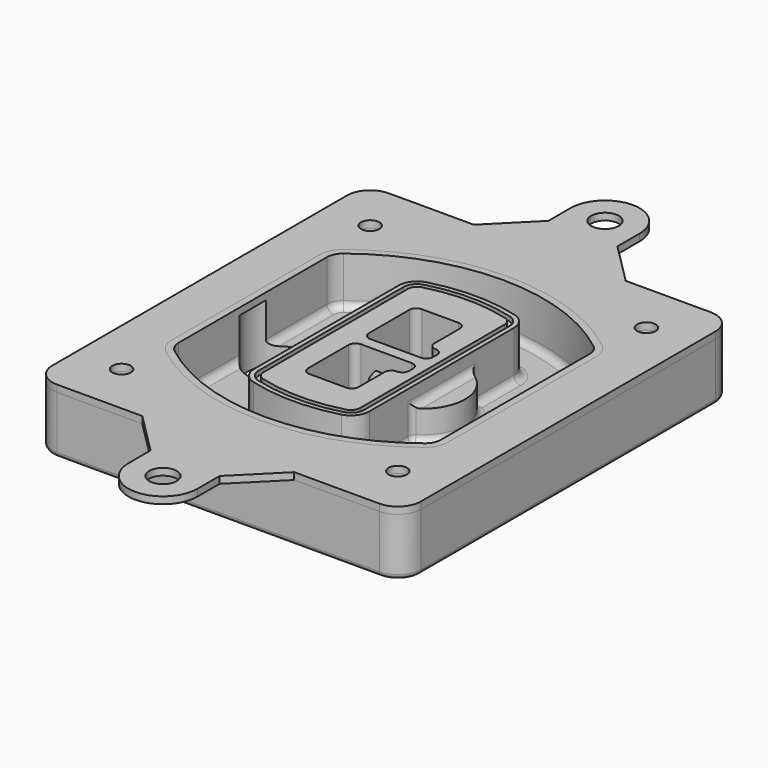
from build123d import *

# Parameters (mm, degrees)
F0_R      = 4
F1_DEPTH  = 25
F2_DEPTH  = 3
F3_DEPTH  = 18
F5_DEPTH  = 21
F6_DEPTH  = 2
F8_DEPTH  = 20
F9_DEPTH  = 16
F10_DEPTH = 25
F7_R      = 6
F7_R_2    = 4
F11_DEPTH = 6
F13_DEPTH = 9
F14_R     = 3
F15_R     = 2
F16_R     = 6
F16_R_2   = 4
F17_DEPTH = 3


with BuildPart() as f1:
    # F0 (on Top) → F1 (new body)
    with BuildSketch(Plane.XY):
        with BuildLine():
            ThreePointArc((-80, -80), (-77.0710678119, -87.0710678119), (-70, -90))
            Line((-70, -90), (70, -90))
            ThreePointArc((70, -90), (77.0710678119, -87.0710678119), (80, -80))
            Line((80, -80), (80, 80))
            ThreePointArc((80, 80), (77.0710678119, 87.0710678119), (70, 90))
            Line((70, 90), (-70, 90))
            ThreePointArc((-70, 90), (-77.0710678119, 87.0710678119), (-80, 80))
            Line((-80, 80), (-80, -80))
        make_face()
        with Locations((-60, -67.5)):
            Circle(F0_R, mode=Mode.SUBTRACT)
        with Locations((60, -67.5)):
            Circle(F0_R, mode=Mode.SUBTRACT)
        with Locations((-60, 67.5)):
            Circle(F0_R, mode=Mode.SUBTRACT)
        with BuildLine():
            ThreePointArc((-64, 40.2934422872), (-62.5820384798, 46.4328484224), (-58.6153846154, 51.3286200352))
            ThreePointArc((-58.6153846154, 51.3286200352), (0, 71.5), (58.6153846154, 51.3286200352))
            ThreePointArc((58.6153846154, 51.3286200352), (62.5820384798, 46.4328484224), (64, 40.2934422872))
            Line((64, 40.2934422872), (64, -40.2934422872))
            ThreePointArc((64, -40.2934422872), (62.5820384798, -46.4328484224), (58.6153846154, -51.3286200352))
            ThreePointArc((58.6153846154, -51.3286200352), (0, -71.5), (-58.6153846154, -51.3286200352))
            ThreePointArc((-58.6153846154, -51.3286200352), (-62.5820384798, -46.4328484224), (-64, -40.2934422872))
            Line((-64, -40.2934422872), (-64, 40.2934422872))
        make_face(mode=Mode.SUBTRACT)
        with Locations((60, 67.5)):
            Circle(F0_R, mode=Mode.SUBTRACT)
        with BuildLine():
            ThreePointArc((58.6153846154, 51.3286200352), (0, 71.5), (-58.6153846154, 51.3286200352))
            ThreePointArc((-58.6153846154, 51.3286200352), (-62.5820384798, 46.4328484224), (-64, 40.2934422872))
            Line((-64, 40.2934422872), (-64, -40.2934422872))
            ThreePointArc((-64, -40.2934422872), (-62.5820384798, -46.4328484224), (-58.6153846154, -51.3286200352))
            ThreePointArc((-58.6153846154, -51.3286200352), (0, -71.5), (58.6153846154, -51.3286200352))
            ThreePointArc((58.6153846154, -51.3286200352), (62.5820384798, -46.4328484224), (64, -40.2934422872))
            Line((64, -40.2934422872), (64, 40.2934422872))
            ThreePointArc((64, 40.2934422872), (62.5820384798, 46.4328484224), (58.6153846154, 51.3286200352))
        make_face()
        with BuildLine():
            Line((-60, -40.2934422872), (-60, 40.2934422872))
            ThreePointArc((-60, 40.2934422872), (-58.9871703427, 44.6787323838), (-56.1538461538, 48.1757121072))
            ThreePointArc((-56.1538461538, 48.1757121072), (0, 67.5), (56.1538461538, 48.1757121072))
            ThreePointArc((56.1538461538, 48.1757121072), (58.9871703427, 44.6787323838), (60, 40.2934422872))
            Line((60, 40.2934422872), (60, -40.2934422872))
            ThreePointArc((60, -40.2934422872), (58.9871703427, -44.6787323838), (56.1538461538, -48.1757121072))
            ThreePointArc((56.1538461538, -48.1757121072), (0, -67.5), (-56.1538461538, -48.1757121072))
            ThreePointArc((-56.1538461538, -48.1757121072), (-58.9871703427, -44.6787323838), (-60, -40.2934422872))
        make_face(mode=Mode.SUBTRACT)
        with BuildLine():
            ThreePointArc((-56.1538461538, 48.1757121072), (-58.9871703427, 44.6787323838), (-60, 40.2934422872))
            Line((-60, 40.2934422872), (-60, -40.2934422872))
            ThreePointArc((-60, -40.2934422872), (-58.9871703427, -44.6787323838), (-56.1538461538, -48.1757121072))
            ThreePointArc((-56.1538461538, -48.1757121072), (0, -67.5), (56.1538461538, -48.1757121072))
            ThreePointArc((56.1538461538, -48.1757121072), (58.9871703427, -44.6787323838), (60, -40.2934422872))
            Line((60, -40.2934422872), (60, 40.2934422872))
            ThreePointArc((60, 40.2934422872), (58.9871703427, 44.6787323838), (56.1538461538, 48.1757121072))
            ThreePointArc((56.1538461538, 48.1757121072), (0, 67.5), (-56.1538461538, 48.1757121072))
        make_face()
        with BuildLine():
            ThreePointArc((54.3076923077, 45.8110311612), (56.2910192399, 43.3631453548), (57, 40.2934422872))
            Line((57, 40.2934422872), (57, -40.2934422872))
            ThreePointArc((57, -40.2934422872), (56.2910192399, -43.3631453548), (54.3076923077, -45.8110311612))
            ThreePointArc((54.3076923077, -45.8110311612), (0, -64.5), (-54.3076923077, -45.8110311612))
            ThreePointArc((-54.3076923077, -45.8110311612), (-56.2910192399, -43.3631453548), (-57, -40.2934422872))
            Line((-57, -40.2934422872), (-57, 40.2934422872))
            ThreePointArc((-57, 40.2934422872), (-56.2910192399, 43.3631453548), (-54.3076923077, 45.8110311612))
            ThreePointArc((-54.3076923077, 45.8110311612), (0, 64.5), (54.3076923077, 45.8110311612))
        make_face(mode=Mode.SUBTRACT)
        with BuildLine():
            Line((57, -40.2934422872), (57, 40.2934422872))
            ThreePointArc((57, 40.2934422872), (56.2910192399, 43.3631453548), (54.3076923077, 45.8110311612))
            ThreePointArc((54.3076923077, 45.8110311612), (0, 64.5), (-54.3076923077, 45.8110311612))
            ThreePointArc((-54.3076923077, 45.8110311612), (-56.2910192399, 43.3631453548), (-57, 40.2934422872))
            Line((-57, 40.2934422872), (-57, -40.2934422872))
            ThreePointArc((-57, -40.2934422872), (-56.2910192399, -43.3631453548), (-54.3076923077, -45.8110311612))
            ThreePointArc((-54.3076923077, -45.8110311612), (0, -64.5), (54.3076923077, -45.8110311612))
            ThreePointArc((54.3076923077, -45.8110311612), (56.2910192399, -43.3631453548), (57, -40.2934422872))
        make_face()
    extrude(amount=-F1_DEPTH)

    # F0 (on Top) → F2 (join)
    with BuildSketch(Plane.XY):
        with BuildLine():
            ThreePointArc((-56.1538461538, 48.1757121072), (-58.9871703427, 44.6787323838), (-60, 40.2934422872))
            Line((-60, 40.2934422872), (-60, -40.2934422872))
            ThreePointArc((-60, -40.2934422872), (-58.9871703427, -44.6787323838), (-56.1538461538, -48.1757121072))
            ThreePointArc((-56.1538461538, -48.1757121072), (0, -67.5), (56.1538461538, -48.1757121072))
            ThreePointArc((56.1538461538, -48.1757121072), (58.9871703427, -44.6787323838), (60, -40.2934422872))
            Line((60, -40.2934422872), (60, 40.2934422872))
            ThreePointArc((60, 40.2934422872), (58.9871703427, 44.6787323838), (56.1538461538, 48.1757121072))
            ThreePointArc((56.1538461538, 48.1757121072), (0, 67.5), (-56.1538461538, 48.1757121072))
        make_face()
        with BuildLine():
            ThreePointArc((54.3076923077, 45.8110311612), (56.2910192399, 43.3631453548), (57, 40.2934422872))
            Line((57, 40.2934422872), (57, -40.2934422872))
            ThreePointArc((57, -40.2934422872), (56.2910192399, -43.3631453548), (54.3076923077, -45.8110311612))
            ThreePointArc((54.3076923077, -45.8110311612), (0, -64.5), (-54.3076923077, -45.8110311612))
            ThreePointArc((-54.3076923077, -45.8110311612), (-56.2910192399, -43.3631453548), (-57, -40.2934422872))
            Line((-57, -40.2934422872), (-57, 40.2934422872))
            ThreePointArc((-57, 40.2934422872), (-56.2910192399, 43.3631453548), (-54.3076923077, 45.8110311612))
            ThreePointArc((-54.3076923077, 45.8110311612), (0, 64.5), (54.3076923077, 45.8110311612))
        make_face(mode=Mode.SUBTRACT)
    extrude(amount=F2_DEPTH)

    # F0 (on Top) → F3 (cut)
    with BuildSketch(Plane.XY):
        with BuildLine():
            Line((57, -40.2934422872), (57, 40.2934422872))
            ThreePointArc((57, 40.2934422872), (56.2910192399, 43.3631453548), (54.3076923077, 45.8110311612))
            ThreePointArc((54.3076923077, 45.8110311612), (0, 64.5), (-54.3076923077, 45.8110311612))
            ThreePointArc((-54.3076923077, 45.8110311612), (-56.2910192399, 43.3631453548), (-57, 40.2934422872))
            Line((-57, 40.2934422872), (-57, -40.2934422872))
            ThreePointArc((-57, -40.2934422872), (-56.2910192399, -43.3631453548), (-54.3076923077, -45.8110311612))
            ThreePointArc((-54.3076923077, -45.8110311612), (0, -64.5), (54.3076923077, -45.8110311612))
            ThreePointArc((54.3076923077, -45.8110311612), (56.2910192399, -43.3631453548), (57, -40.2934422872))
        make_face()
    extrude(amount=-F3_DEPTH, mode=Mode.SUBTRACT)

    # F4 (on face) → F5 (join, through all)
    with BuildSketch(Plane.XY.offset(3)):
        with BuildLine():
            ThreePointArc((-25, -39.2465276821), (-23.3511545998, -44.1109737193), (-19.0842911877, -46.9702398883))
            ThreePointArc((-19.0842911877, -46.9702398883), (0, -49.5), (19.0842911877, -46.9702398883))
            ThreePointArc((19.0842911877, -46.9702398883), (23.3511545998, -44.1109737193), (25, -39.2465276821))
            Line((25, -39.2465276821), (25, 39.2465276821))
            ThreePointArc((25, 39.2465276821), (23.3511545998, 44.1109737193), (19.0842911877, 46.9702398883))
            ThreePointArc((19.0842911877, 46.9702398883), (0, 49.5), (-19.0842911877, 46.9702398883))
            ThreePointArc((-19.0842911877, 46.9702398883), (-23.3511545998, 44.1109737193), (-25, 39.2465276821))
            Line((-25, 39.2465276821), (-25, -39.2465276821))
        make_face()
        with BuildLine():
            ThreePointArc((18.5632183908, 45.0393118368), (21.7633659499, 42.89486221), (23, 39.2465276821))
            Line((23, 39.2465276821), (23, -39.2465276821))
            ThreePointArc((23, -39.2465276821), (21.7633659499, -42.89486221), (18.5632183908, -45.0393118368))
            ThreePointArc((18.5632183908, -45.0393118368), (0, -47.5), (-18.5632183908, -45.0393118368))
            ThreePointArc((-18.5632183908, -45.0393118368), (-21.7633659499, -42.89486221), (-23, -39.2465276821))
            Line((-23, -39.2465276821), (-23, 39.2465276821))
            ThreePointArc((-23, 39.2465276821), (-21.7633659499, 42.89486221), (-18.5632183908, 45.0393118368))
            ThreePointArc((-18.5632183908, 45.0393118368), (0, 47.5), (18.5632183908, 45.0393118368))
        make_face(mode=Mode.SUBTRACT)
        with BuildLine():
            Line((23, -39.2465276821), (23, 39.2465276821))
            ThreePointArc((23, 39.2465276821), (21.7633659499, 42.89486221), (18.5632183908, 45.0393118368))
            ThreePointArc((18.5632183908, 45.0393118368), (0, 47.5), (-18.5632183908, 45.0393118368))
            ThreePointArc((-18.5632183908, 45.0393118368), (-21.7633659499, 42.89486221), (-23, 39.2465276821))
            Line((-23, 39.2465276821), (-23, -39.2465276821))
            ThreePointArc((-23, -39.2465276821), (-21.7633659499, -42.89486221), (-18.5632183908, -45.0393118368))
            ThreePointArc((-18.5632183908, -45.0393118368), (0, -47.5), (18.5632183908, -45.0393118368))
            ThreePointArc((18.5632183908, -45.0393118368), (21.7633659499, -42.89486221), (23, -39.2465276821))
        make_face()
        with BuildLine():
            ThreePointArc((18.0421455939, 43.1083837852), (20.1755772999, 41.6787507007), (21, 39.2465276821))
            Line((21, 39.2465276821), (21, -39.2465276821))
            ThreePointArc((21, -39.2465276821), (20.1755772999, -41.6787507007), (18.0421455939, -43.1083837852))
            ThreePointArc((18.0421455939, -43.1083837852), (0, -45.5), (-18.0421455939, -43.1083837852))
            ThreePointArc((-18.0421455939, -43.1083837852), (-20.1755772999, -41.6787507007), (-21, -39.2465276821))
            Line((-21, -39.2465276821), (-21, 39.2465276821))
            ThreePointArc((-21, 39.2465276821), (-20.1755772999, 41.6787507007), (-18.0421455939, 43.1083837852))
            ThreePointArc((-18.0421455939, 43.1083837852), (0, 45.5), (18.0421455939, 43.1083837852))
        make_face(mode=Mode.SUBTRACT)
        with BuildLine():
            Line((21, -39.2465276821), (21, 39.2465276821))
            ThreePointArc((21, 39.2465276821), (20.1755772999, 41.6787507007), (18.0421455939, 43.1083837852))
            ThreePointArc((18.0421455939, 43.1083837852), (0, 45.5), (-18.0421455939, 43.1083837852))
            ThreePointArc((-18.0421455939, 43.1083837852), (-20.1755772999, 41.6787507007), (-21, 39.2465276821))
            Line((-21, 39.2465276821), (-21, -39.2465276821))
            ThreePointArc((-21, -39.2465276821), (-20.1755772999, -41.6787507007), (-18.0421455939, -43.1083837852))
            ThreePointArc((-18.0421455939, -43.1083837852), (0, -45.5), (18.0421455939, -43.1083837852))
            ThreePointArc((18.0421455939, -43.1083837852), (20.1755772999, -41.6787507007), (21, -39.2465276821))
        make_face()
        with BuildLine():
            Line((-8, -2.5), (14, -2.5))
            ThreePointArc((14, -2.5), (16.1213203436, -3.3786796564), (17, -5.5))
            Line((17, -5.5), (17, -7.5))
            ThreePointArc((17, -7.5), (16.1213203436, -9.6213203436), (14, -10.5))
            ThreePointArc((14, -10.5), (11.8786796564, -11.3786796564), (11, -13.5))
            Line((11, -13.5), (11, -27.5))
            ThreePointArc((11, -27.5), (10.1213203436, -29.6213203436), (8, -30.5))
            Line((8, -30.5), (-8, -30.5))
            ThreePointArc((-8, -30.5), (-10.1213203436, -29.6213203436), (-11, -27.5))
            Line((-11, -27.5), (-11, -5.5))
            ThreePointArc((-11, -5.5), (-10.1213203436, -3.3786796564), (-8, -2.5))
        make_face(mode=Mode.SUBTRACT)
        with BuildLine():
            ThreePointArc((-8, 2.5), (-10.1213203436, 3.3786796564), (-11, 5.5))
            Line((-11, 5.5), (-11, 27.5))
            ThreePointArc((-11, 27.5), (-10.1213203436, 29.6213203436), (-8, 30.5))
            Line((-8, 30.5), (8, 30.5))
            ThreePointArc((8, 30.5), (10.1213203436, 29.6213203436), (11, 27.5))
            Line((11, 27.5), (11, 13.5))
            ThreePointArc((11, 13.5), (11.8786796564, 11.3786796564), (14, 10.5))
            ThreePointArc((14, 10.5), (16.1213203436, 9.6213203436), (17, 7.5))
            Line((17, 7.5), (17, 5.5))
            ThreePointArc((17, 5.5), (16.1213203436, 3.3786796564), (14, 2.5))
            Line((14, 2.5), (-8, 2.5))
        make_face(mode=Mode.SUBTRACT)
    extrude(amount=-F5_DEPTH)

    # F4 (on face) → F6 (cut)
    with BuildSketch(Plane.XY.offset(3)):
        with BuildLine():
            Line((23, -39.2465276821), (23, 39.2465276821))
            ThreePointArc((23, 39.2465276821), (21.7633659499, 42.89486221), (18.5632183908, 45.0393118368))
            ThreePointArc((18.5632183908, 45.0393118368), (0, 47.5), (-18.5632183908, 45.0393118368))
            ThreePointArc((-18.5632183908, 45.0393118368), (-21.7633659499, 42.89486221), (-23, 39.2465276821))
            Line((-23, 39.2465276821), (-23, -39.2465276821))
            ThreePointArc((-23, -39.2465276821), (-21.7633659499, -42.89486221), (-18.5632183908, -45.0393118368))
            ThreePointArc((-18.5632183908, -45.0393118368), (0, -47.5), (18.5632183908, -45.0393118368))
            ThreePointArc((18.5632183908, -45.0393118368), (21.7633659499, -42.89486221), (23, -39.2465276821))
        make_face()
        with BuildLine():
            ThreePointArc((18.0421455939, 43.1083837852), (20.1755772999, 41.6787507007), (21, 39.2465276821))
            Line((21, 39.2465276821), (21, -39.2465276821))
            ThreePointArc((21, -39.2465276821), (20.1755772999, -41.6787507007), (18.0421455939, -43.1083837852))
            ThreePointArc((18.0421455939, -43.1083837852), (0, -45.5), (-18.0421455939, -43.1083837852))
            ThreePointArc((-18.0421455939, -43.1083837852), (-20.1755772999, -41.6787507007), (-21, -39.2465276821))
            Line((-21, -39.2465276821), (-21, 39.2465276821))
            ThreePointArc((-21, 39.2465276821), (-20.1755772999, 41.6787507007), (-18.0421455939, 43.1083837852))
            ThreePointArc((-18.0421455939, 43.1083837852), (0, 45.5), (18.0421455939, 43.1083837852))
        make_face(mode=Mode.SUBTRACT)
    extrude(amount=-F6_DEPTH, mode=Mode.SUBTRACT)

    # F7 (on face) → F8 (join)
    with BuildSketch(Plane(origin=(0, 0, -25), x_dir=(1, 0, 0), z_dir=(0, 0, -1))):
        with BuildLine():
            ThreePointArc((3.28842436, 0), (16.7567035675, 13.4682792075), (30.224982775, 0))
            Line((30.224982775, 0), (35.224982775, 0))
            ThreePointArc((35.224982775, 0), (16.7567035675, 18.4682792075), (-1.71157564, 0))
            Line((-1.71157564, 0), (3.28842436, 0))
        make_face()
        with BuildLine():
            Line((3.28842436, 0), (30.224982775, 0))
            ThreePointArc((30.224982775, 0), (16.7567035675, 13.4682792075), (3.28842436, 0))
        make_face()
        with BuildLine():
            ThreePointArc((3.28842436, 0), (16.7567035675, -13.4682792075), (30.224982775, 0))
            Line((30.224982775, 0), (3.28842436, 0))
        make_face()
        with BuildLine():
            Line((35.224982775, 0), (30.224982775, 0))
            ThreePointArc((30.224982775, 0), (16.7567035675, -13.4682792075), (3.28842436, 0))
            Line((3.28842436, 0), (-1.71157564, 0))
            ThreePointArc((-1.71157564, 0), (16.7567035675, -18.4682792075), (35.224982775, 0))
        make_face()
    extrude(amount=-F8_DEPTH)

    # F7 (on face) → F9 (cut)
    with BuildSketch(Plane(origin=(0, 0, -25), x_dir=(1, 0, 0), z_dir=(0, 0, -1))):
        with BuildLine():
            Line((3.28842436, 0), (30.224982775, 0))
            ThreePointArc((30.224982775, 0), (16.7567035675, 13.4682792075), (3.28842436, 0))
        make_face()
        with BuildLine():
            ThreePointArc((3.28842436, 0), (16.7567035675, -13.4682792075), (30.224982775, 0))
            Line((30.224982775, 0), (3.28842436, 0))
        make_face()
    extrude(amount=-F9_DEPTH, mode=Mode.SUBTRACT)

    # F7 (on face) → F10 (cut)
    with BuildSketch(Plane(origin=(0, 0, -25), x_dir=(1, 0, 0), z_dir=(0, 0, -1))):
        with BuildLine():
            Line((-59.0318229325, 0), (-32.0952645175, 0))
            ThreePointArc((-32.0952645175, 0), (-45.563543725, 13.4682792075), (-59.0318229325, 0))
        make_face()
        with BuildLine():
            ThreePointArc((-59.0318229325, 0), (-45.563543725, -13.4682792075), (-32.0952645175, 0))
            Line((-32.0952645175, 0), (-59.0318229325, 0))
        make_face()
    extrude(amount=-F10_DEPTH, mode=Mode.SUBTRACT)

    # F7 (on face) → F11 (cut)
    with BuildSketch(Plane(origin=(0, 0, -25), x_dir=(1, 0, 0), z_dir=(0, 0, -1))):
        with Locations((60, -67.5)):
            Circle(F7_R)
        with Locations((60, -67.5)):
            Circle(F7_R_2, mode=Mode.SUBTRACT)
        with Locations((60, -67.5)):
            Circle(F7_R)
        with Locations((60, -67.5)):
            Circle(F7_R_2, mode=Mode.SUBTRACT)
        with Locations((-60, -67.5)):
            Circle(F7_R)
        with Locations((-60, -67.5)):
            Circle(F7_R_2, mode=Mode.SUBTRACT)
        with Locations((-60, -67.5)):
            Circle(F7_R)
        with Locations((-60, -67.5)):
            Circle(F7_R_2, mode=Mode.SUBTRACT)
        with Locations((-60, 67.5)):
            Circle(F7_R)
        with Locations((-60, 67.5)):
            Circle(F7_R_2, mode=Mode.SUBTRACT)
        with Locations((-60, 67.5)):
            Circle(F7_R)
        with Locations((-60, 67.5)):
            Circle(F7_R_2, mode=Mode.SUBTRACT)
        with Locations((60, 67.5)):
            Circle(F7_R)
        with Locations((60, 67.5)):
            Circle(F7_R_2, mode=Mode.SUBTRACT)
        with Locations((60, 67.5)):
            Circle(F7_R)
        with Locations((60, 67.5)):
            Circle(F7_R_2, mode=Mode.SUBTRACT)
    extrude(amount=-F11_DEPTH, mode=Mode.SUBTRACT)

    # F12 (on face) → F13 (cut, through all)
    with BuildSketch(Plane(origin=(0, 0, -9), x_dir=(1, 0, 0), z_dir=(0, 0, -1))):
        with BuildLine():
            Line((11, 13.5), (11, 17.5481537753))
            ThreePointArc((11, 17.5481537753), (2.5696536419, 11.8239143813), (-1.5415842455, 2.5))
            Line((-1.5415842455, 2.5), (3.5224848595, 2.5))
            ThreePointArc((3.5224848595, 2.5), (6.1857188154, 8.3455872281), (11.2536447004, 12.2927168648))
            ThreePointArc((11.2536447004, 12.2927168648), (11.0640958889, 12.8831798879), (11, 13.5))
        make_face()
        with BuildLine():
            ThreePointArc((11.2536447004, -12.2927168648), (6.1857188154, -8.3455872281), (3.5224848595, -2.5))
            Line((3.5224848595, -2.5), (-1.5415842455, -2.5))
            ThreePointArc((-1.5415842455, -2.5), (2.5696536419, -11.8239143813), (11, -17.5481537753))
            Line((11, -17.5481537753), (11, -13.5))
            ThreePointArc((11, -13.5), (11.0640958889, -12.8831798879), (11.2536447004, -12.2927168648))
        make_face()
        with BuildLine():
            ThreePointArc((11.2536447004, 12.2927168648), (6.1857188154, 8.3455872281), (3.5224848595, 2.5))
            Line((3.5224848595, 2.5), (14, 2.5))
            ThreePointArc((14, 2.5), (16.1213203436, 3.3786796564), (17, 5.5))
            Line((17, 5.5), (17, 7.5))
            ThreePointArc((17, 7.5), (16.1213203436, 9.6213203436), (14, 10.5))
            ThreePointArc((14, 10.5), (12.3601599782, 10.9878446101), (11.2536447004, 12.2927168648))
        make_face()
        with BuildLine():
            Line((14, -2.5), (3.5224848595, -2.5))
            ThreePointArc((3.5224848595, -2.5), (6.1857188154, -8.3455872281), (11.2536447004, -12.2927168648))
            ThreePointArc((11.2536447004, -12.2927168648), (12.3601599782, -10.9878446101), (14, -10.5))
            ThreePointArc((14, -10.5), (16.1213203436, -9.6213203436), (17, -7.5))
            Line((17, -7.5), (17, -5.5))
            ThreePointArc((17, -5.5), (16.1213203436, -3.3786796564), (14, -2.5))
        make_face()
    extrude(amount=F13_DEPTH, mode=Mode.SUBTRACT)

    # F14
    f14_edges = [f1.edges().sort_by_distance(p)[0] for p in [
        (-57, -23.703476, -18),
        (-57, 23.703476, -18),
        (25, 0, -5),
        (25, 16.526506, -11.5),
        (25, -16.526506, -11.5),
        (25, -27.886517, -18),
        (35.224983, 0, -18),
    ]]
    fillet(f14_edges, radius=F14_R)

    # F15
    f15_edges = [f1.edges().sort_by_distance(p)[0] for p in [
        (0, -90, -25),
    ]]
    fillet(f15_edges, radius=F15_R)


with BuildPart() as f17:
    # F16 (on face) → F17 (new body, through all)
    with BuildSketch(Plane.XY):
        with BuildLine():
            Line((-15, 108), (-33, 90))
            Line((-33, 90), (33, 90))
            Line((33, 90), (15, 108))
            Line((15, 108), (15, 120))
            ThreePointArc((15, 120), (0, 135), (-15, 120))
            Line((-15, 120), (-15, 108))
        make_face()
        with Locations((0, 120)):
            Circle(F16_R, mode=Mode.SUBTRACT)
        with BuildLine():
            ThreePointArc((-80, -80), (-77.0710678119, -87.0710678119), (-70, -90))
            Line((-70, -90), (-33, -90))
            Line((-33, -90), (33, -90))
            Line((33, -90), (70, -90))
            ThreePointArc((70, -90), (77.0710678119, -87.0710678119), (80, -80))
            Line((80, -80), (80, 80))
            ThreePointArc((80, 80), (77.0710678119, 87.0710678119), (70, 90))
            Line((70, 90), (33, 90))
            Line((33, 90), (-33, 90))
            Line((-33, 90), (-70, 90))
            ThreePointArc((-70, 90), (-77.0710678119, 87.0710678119), (-80, 80))
            Line((-80, 80), (-80, -80))
        make_face()
        with Locations((-60, -67.5)):
            Circle(F16_R_2, mode=Mode.SUBTRACT)
        with Locations((60, -67.5)):
            Circle(F16_R_2, mode=Mode.SUBTRACT)
        with Locations((-60, 67.5)):
            Circle(F16_R_2, mode=Mode.SUBTRACT)
        with BuildLine():
            Line((-60, -40.2934422872), (-60, 40.2934422872))
            ThreePointArc((-60, 40.2934422872), (-58.9871703427, 44.6787323838), (-56.1538461538, 48.1757121072))
            ThreePointArc((-56.1538461538, 48.1757121072), (0, 67.5), (56.1538461538, 48.1757121072))
            ThreePointArc((56.1538461538, 48.1757121072), (58.9871703427, 44.6787323838), (60, 40.2934422872))
            Line((60, 40.2934422872), (60, -40.2934422872))
            ThreePointArc((60, -40.2934422872), (58.9871703427, -44.6787323838), (56.1538461538, -48.1757121072))
            ThreePointArc((56.1538461538, -48.1757121072), (0, -67.5), (-56.1538461538, -48.1757121072))
            ThreePointArc((-56.1538461538, -48.1757121072), (-58.9871703427, -44.6787323838), (-60, -40.2934422872))
        make_face(mode=Mode.SUBTRACT)
        with Locations((60, 67.5)):
            Circle(F16_R_2, mode=Mode.SUBTRACT)
        with BuildLine():
            Line((33, -90), (-33, -90))
            Line((-33, -90), (-15, -108))
            Line((-15, -108), (-15, -120))
            ThreePointArc((-15, -120), (0, -135), (15, -120))
            Line((15, -120), (15, -108))
            Line((15, -108), (33, -90))
        make_face()
        with Locations((0, -120)):
            Circle(F16_R, mode=Mode.SUBTRACT)
    extrude(amount=F17_DEPTH)


solid = Compound([f1.part, f17.part])
